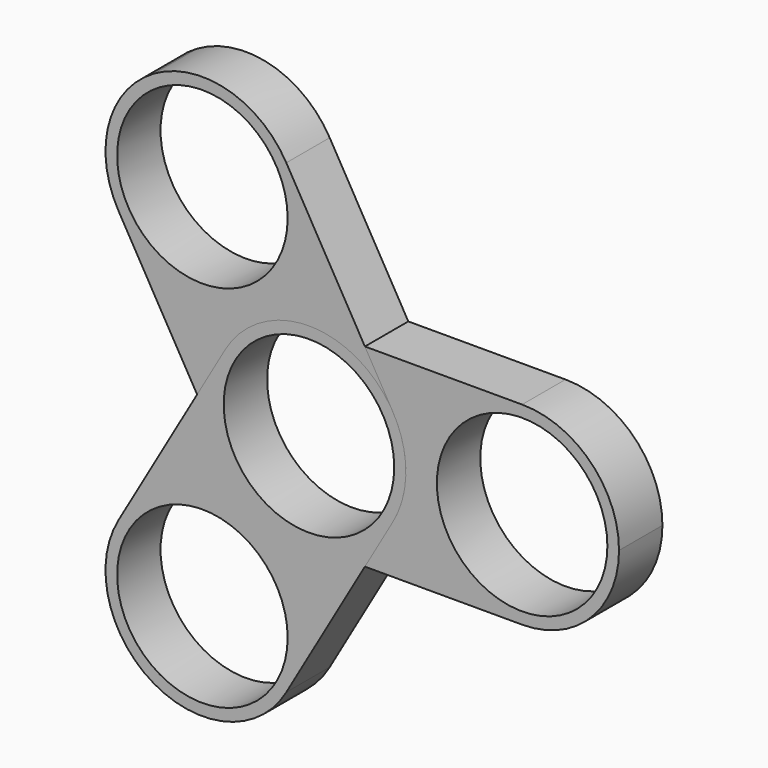
from build123d import *

# Parameters (mm, degrees)
F0_R     = 11
F1_DEPTH = 3.5
F3_COUNT = 3


with BuildPart() as f1:
    # F0 (on Front) → F1 (new body, symmetric)
    with BuildSketch(Plane.XZ):
        with BuildLine():
            ThreePointArc((12.5, 0), (8.838835, 8.838835), (0, 12.5))
            ThreePointArc((0, 12.5), (-12.5, 0), (0, -12.5))
            ThreePointArc((0, -12.5), (8.838835, -8.838835), (12.5, 0))
        make_face()
        Circle(F0_R, mode=Mode.SUBTRACT)
        with BuildLine():
            ThreePointArc((27.5, -12.5), (36.338835, -8.838835), (40, 0))
            ThreePointArc((40, 0), (36.338835, 8.838835), (27.5, 12.5))
            ThreePointArc((27.5, 12.5), (15, 0), (27.5, -12.5))
        make_face()
        with Locations((27.5, 0)):
            Circle(F0_R, mode=Mode.SUBTRACT)
        with BuildLine():
            ThreePointArc((27.5, -12.5), (15, 0), (27.5, 12.5))
            Line((27.5, 12.5), (0, 12.5))
            ThreePointArc((0, 12.5), (8.838835, 8.838835), (12.5, 0))
            ThreePointArc((12.5, 0), (8.838835, -8.838835), (0, -12.5))
            Line((0, -12.5), (27.5, -12.5))
        make_face()
    extrude(amount=F1_DEPTH, both=True)


with BuildPart() as f3_1:
    # F3: instance of F1
    add(f1.part.rotate(Axis((0, -21.417178, 0), (0, -1, 0)), 1 * 360 / F3_COUNT))


with BuildPart() as f3_2:
    # F3: instance of F1
    add(f1.part.rotate(Axis((0, -21.417178, 0), (0, -1, 0)), 2 * 360 / F3_COUNT))


solid = Compound([f1.part, f3_1.part, f3_2.part])
